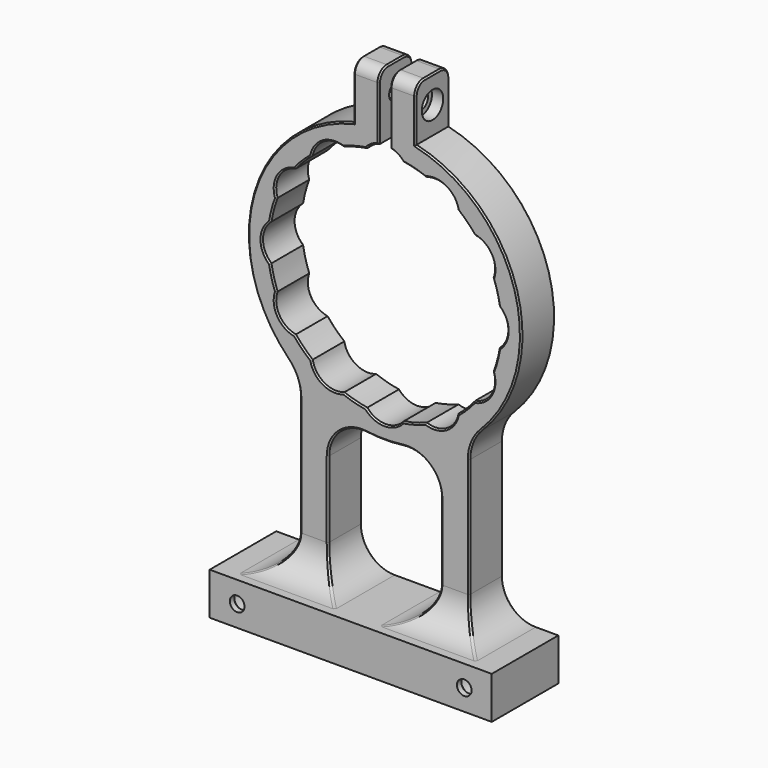
from build123d import *

# Parameters (mm, degrees)
SKETCH033_W     = 100
SKETCH033_H     = 15
SKETCH033_R     = 2.6
PAD008_DEPTH    = 30
PAD009_DEPTH    = 15
FILLET_R        = 12
SKETCH035_W     = 4
SKETCH035_H     = 17.017857
POCKET024_DEPTH = 100
PAD010_DEPTH    = 15
SKETCH037_R     = 3
POCKET025_DEPTH = 100
SKETCH038_R     = 4.75
POCKET026_DEPTH = 4
PAD025_DEPTH    = 15
POCKET052_DEPTH = 100
CHAMFER023_SIZE = 0.5
SKETCH060_R     = 5.5
POCKET053_DEPTH = 26
CHAMFER024_SIZE = 2


with BuildPart() as part:
    # Sketch033 (on Face1 of ShapeBinder005) → Pad008 (new body)
    with BuildSketch(Plane(origin=(248, 236, 0), x_dir=(-1, 0, 0), z_dir=(0, 1, 0))):
        with Locations((124, 7.5)):
            Rectangle(SKETCH033_W, SKETCH033_H)
        with Locations((83.75, 7.5)):
            Circle(SKETCH033_R, mode=Mode.SUBTRACT)
        with Locations((164.25, 7.5)):
            Circle(SKETCH033_R, mode=Mode.SUBTRACT)
    extrude(amount=PAD008_DEPTH)

    # Sketch034 (on Face8 of Pad008) → Pad009 (join)
    with BuildSketch(Plane(origin=(248, 266, 0), x_dir=(-1, 0, 0), z_dir=(0, 1, 0))):
        with BuildLine():
            Line((94, 75.808196), (94, 15))
            Line((104, 15), (94, 15))
            Line((104, 69.732321), (104, 15))
            ThreePointArc((104, 69.732321), (124, 65.416594), (144, 69.732321))
            Line((144, 15), (144, 69.732321))
            Line((154, 15), (144, 15))
            Line((154, 75.808196), (154, 15))
            ThreePointArc((154, 75.808196), (124, 162.416594), (94, 75.808196))
        make_face()
        with BuildLine():
            ThreePointArc((83.517857, 120.412447), (80.5, 113.916594), (83.517857, 107.420741))
            ThreePointArc((83.517857, 107.420741), (84.397041, 103.305013), (85.693509, 99.301097))
            ThreePointArc((85.693509, 99.301097), (86.327895, 92.166594), (92.189363, 88.049949))
            ThreePointArc((92.189363, 88.049949), (95.008622, 84.925216), (98.133355, 82.105957))
            ThreePointArc((98.133355, 82.105957), (102.25, 76.244489), (109.384503, 75.610103))
            ThreePointArc((109.384503, 75.610103), (113.388419, 74.313635), (117.504147, 73.434451))
            ThreePointArc((117.504147, 73.434451), (124, 70.416594), (130.495853, 73.434451))
            ThreePointArc((130.495853, 73.434451), (134.611581, 74.313635), (138.615497, 75.610103))
            ThreePointArc((138.615497, 75.610103), (145.75, 76.244489), (149.866645, 82.105957))
            ThreePointArc((149.866645, 82.105957), (152.991378, 84.925216), (155.810637, 88.049949))
            ThreePointArc((155.810637, 88.049949), (161.672105, 92.166594), (162.306491, 99.301097))
            ThreePointArc((162.306491, 99.301097), (163.602959, 103.305013), (164.482143, 107.420741))
            ThreePointArc((164.482143, 107.420741), (167.5, 113.916594), (164.482143, 120.412447))
            ThreePointArc((164.482143, 120.412447), (163.602959, 124.528175), (162.306491, 128.532092))
            ThreePointArc((162.306491, 128.532092), (161.672105, 135.666594), (155.810637, 139.78324))
            ThreePointArc((155.810637, 139.78324), (152.991378, 142.907972), (149.866645, 145.727232))
            ThreePointArc((149.866645, 145.727232), (145.75, 151.588699), (138.615497, 152.223085))
            ThreePointArc((138.615497, 152.223085), (134.611581, 153.519553), (130.495853, 154.398737))
            ThreePointArc((130.495853, 154.398737), (124, 157.416594), (117.504147, 154.398737))
            ThreePointArc((117.504147, 154.398737), (113.388419, 153.519553), (109.384503, 152.223085))
            ThreePointArc((109.384503, 152.223085), (102.25, 151.588699), (98.133355, 145.727232))
            ThreePointArc((98.133355, 145.727232), (95.008622, 142.907972), (92.189363, 139.78324))
            ThreePointArc((92.189363, 139.78324), (86.327895, 135.666594), (85.693509, 128.532092))
            ThreePointArc((85.693509, 128.532092), (84.397041, 124.528175), (83.517857, 120.412447))
        make_face(mode=Mode.SUBTRACT)
    extrude(amount=-PAD009_DEPTH)

    # Fillet
    fillet_edges = [part.edges().sort_by_distance(p)[0] for p in [
        (154, 258.5, 15),
        (149, 251, 15),
        (104, 258.5, 15),
        (99, 251, 15),
        (144, 258.5, 15),
        (94, 258.5, 15),
    ]]
    fillet(fillet_edges, radius=FILLET_R)

    # Sketch035 (on Face2 of Fillet) → Pocket024 (cut)
    with BuildSketch(Plane(origin=(248, 266, 0), x_dir=(-1, 0, 0), z_dir=(0, 1, 0))):
        with Locations((124, 162.907666)):
            Rectangle(SKETCH035_W, SKETCH035_H)
    extrude(amount=-POCKET024_DEPTH, mode=Mode.SUBTRACT)

    # Sketch036 (on Face2 of Pocket024) → Pad010 (join)
    with BuildSketch(Plane(origin=(248, 266, 0), x_dir=(-1, 0, 0), z_dir=(0, 1, 0))):
        Polygon((113, 180.37534), (122, 180.37534), (122, 162.37534), (122, 161.152703), (113, 161.152703), align=None)
        Polygon((135, 180.37534), (126, 180.37534), (126, 162.37534), (126, 161.152703), (135, 161.152703), align=None)
    extrude(amount=-PAD010_DEPTH)

    # Sketch037 (on Face21 of Pad010) → Pocket025 (cut)
    with BuildSketch(Plane(origin=(135, 180, 0), x_dir=(0, 1, 0), z_dir=(1, 0, 0))):
        with Locations((78.5, 170.764021)):
            Circle(SKETCH037_R)
    extrude(amount=-POCKET025_DEPTH, mode=Mode.SUBTRACT)

    # Sketch038 (on Face45 of Pocket025) → Pocket026 (cut)
    with BuildSketch(Plane(origin=(135, 180, 0), x_dir=(0, 1, 0), z_dir=(1, 0, 0))):
        with Locations((78.5, 170.764021)):
            Circle(SKETCH038_R)
    extrude(amount=-POCKET026_DEPTH, mode=Mode.SUBTRACT)

    # Sketch073 (on Face2 of Pocket026) → Pad025 (join)
    with BuildSketch(Plane(origin=(248, 266, 0), x_dir=(-1, 0, 0), z_dir=(0, 1, 0))):
        with BuildLine():
            ThreePointArc((94, 69.114251), (92.864502, 74.839248), (89.629921, 79.697481))
            Line((89.629921, 79.697481), (94, 79.697481))
            Line((94, 79.697481), (94, 69.114251))
        make_face()
        with BuildLine():
            ThreePointArc((158.37006, 79.697463), (155.135493, 74.839235), (154, 69.114251))
            Line((154, 79.697463), (154, 69.114251))
            Line((158.37006, 79.697463), (154, 79.697463))
        make_face()
        with BuildLine():
            ThreePointArc((144, 53.947852), (139.904387, 62.976732), (130.413223, 65.842479))
            Line((130.413223, 65.842479), (117.586777, 65.842479))
            ThreePointArc((117.586777, 65.842479), (108.095613, 62.976732), (104, 53.947852))
            Line((104, 53.947852), (104, 69.732321))
            Line((104, 69.732321), (144, 69.732321))
            Line((144, 69.732321), (144, 53.947852))
        make_face()
    extrude(amount=-PAD025_DEPTH)

    # Sketch074 (on Face2 of Pad025) → Pocket052 (cut)
    with BuildSketch(Plane(origin=(135, 180, 0), x_dir=(0, 1, 0), z_dir=(1, 0, 0))):
        with BuildLine():
            Line((71, 180.37534), (71, 176.37534))
            ThreePointArc((75, 180.37534), (72.171573, 179.203767), (71, 176.37534))
            Line((71, 180.37534), (75, 180.37534))
        make_face()
        with BuildLine():
            Line((86, 180.37534), (82, 180.37534))
            ThreePointArc((86, 176.37534), (84.828427, 179.203767), (82, 180.37534))
            Line((86, 180.37534), (86, 176.37534))
        make_face()
    extrude(amount=-POCKET052_DEPTH, mode=Mode.SUBTRACT)

    # Chamfer023
    chamfer023_edges = [part.edges().sort_by_distance(p)[0] for p in [
        (154, 251, 48.057125),
        (149, 251, 27),
        (144, 251, 40.473926),
        (139.904387, 251, 62.976732),
        (124, 251, 65.416594),
        (108.095613, 251, 62.976732),
        (104, 251, 40.473926),
        (99, 251, 27),
        (94, 251, 48.057125),
        (92.864507, 251, 74.839235),
        (77.380802, 251, 127.291958),
        (113, 251, 168.764021),
        (117.5, 251, 176.37534),
        (122, 251, 166.776645),
        (119.530561, 251, 156.146678),
        (113.388419, 251, 153.519553),
        (102.25, 251, 151.588699),
        (95.008622, 251, 142.907972),
        (86.327895, 251, 135.666594),
        (84.397041, 251, 124.528175),
        (80.5, 251, 113.916594),
        (84.397041, 251, 103.305013),
        (86.327895, 251, 92.166594),
        (95.008622, 251, 84.925216),
        (102.25, 251, 76.244489),
        (113.388419, 251, 74.313635),
        (124, 251, 70.416594),
        (134.611581, 251, 74.313635),
        (145.75, 251, 76.244489),
        (152.991378, 251, 84.925216),
        (161.672105, 251, 92.166594),
        (163.602959, 251, 103.305013),
        (167.5, 251, 113.916594),
        (163.602959, 251, 124.528175),
        (161.672105, 251, 135.666594),
        (152.991378, 251, 142.907972),
        (145.75, 251, 151.588699),
        (134.611581, 251, 153.519553),
        (128.469439, 251, 156.146678),
        (126, 251, 166.776645),
        (130.5, 251, 176.37534),
        (135, 251, 168.764021),
        (170.619195, 251, 127.291971),
        (155.135498, 251, 74.839248),
        (157.514719, 266, 18.514719),
        (154, 266, 48.057125),
        (155.135498, 266, 74.839248),
        (170.619195, 266, 127.291971),
        (135, 266, 168.764021),
        (130.5, 266, 176.37534),
        (126, 266, 166.776645),
        (128.469439, 266, 156.146678),
        (134.611581, 266, 153.519553),
        (145.75, 266, 151.588699),
        (152.991378, 266, 142.907972),
        (161.672105, 266, 135.666594),
        (163.602959, 266, 124.528175),
        (167.5, 266, 113.916594),
        (163.602959, 266, 103.305013),
        (161.672105, 266, 92.166594),
        (152.991378, 266, 84.925216),
        (145.75, 266, 76.244489),
        (134.611581, 266, 74.313635),
        (124, 266, 70.416594),
        (113.388419, 266, 74.313635),
        (102.25, 266, 76.244489),
        (95.008622, 266, 84.925216),
        (86.327895, 266, 92.166594),
        (84.397041, 266, 103.305013),
        (80.5, 266, 113.916594),
        (84.397041, 266, 124.528175),
        (86.327895, 266, 135.666594),
        (95.008622, 266, 142.907972),
        (102.25, 266, 151.588699),
        (113.388419, 266, 153.519553),
        (119.530561, 266, 156.146678),
        (122, 266, 166.776645),
        (117.5, 266, 176.37534),
        (113, 266, 168.764021),
        (77.380802, 266, 127.291958),
        (92.864507, 266, 74.839235),
        (94, 266, 48.057125),
        (90.485281, 266, 18.514719),
        (78, 266, 15),
        (74, 266, 7.5),
        (124, 266, 0),
        (174, 266, 7.5),
        (170, 266, 15),
        (124, 266, 15),
        (140.485281, 266, 18.514719),
        (107.514719, 266, 18.514719),
        (144, 266, 40.473926),
        (104, 266, 40.473926),
        (139.904387, 266, 62.976732),
        (108.095613, 266, 62.976732),
        (124, 266, 65.416594),
        (86.35, 266, 7.5),
        (166.85, 266, 7.5),
    ]]
    chamfer(chamfer023_edges, length=CHAMFER023_SIZE)

    # Sketch060 (on Face9 of Chamfer023) → Pocket053 (cut)
    with BuildSketch(Plane(origin=(248, 266, 0), x_dir=(-1, 0, 0), z_dir=(0, 1, 0))):
        with Locations((164.25, 7.5)):
            Circle(SKETCH060_R)
        with Locations((83.75, 7.5)):
            Circle(SKETCH060_R)
    extrude(amount=-POCKET053_DEPTH, mode=Mode.SUBTRACT)

    # Chamfer024
    chamfer024_edges = [part.edges().sort_by_distance(p)[0] for p in [
        (86.35, 240, 7.5),
        (166.85, 240, 7.5),
    ]]
    chamfer(chamfer024_edges, length=CHAMFER024_SIZE)


solid = part.part
